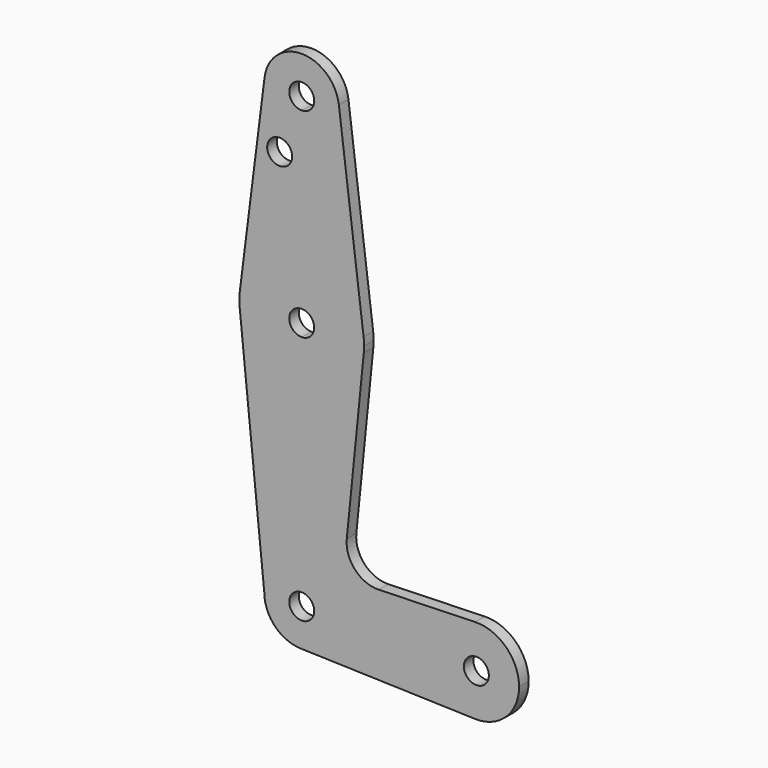
from build123d import *

# Parameters (mm, degrees)
F0_R     = 3.175
F1_DEPTH = 3.048


with BuildPart() as f1:
    # F0 (on Front) → F1 (new body)
    with BuildSketch(Plane.XZ):
        with BuildLine():
            ThreePointArc((3.175, 0), (-2.2450640303, -2.2450640303), (0, 3.175))
            Line((0, 3.175), (0, 9.525))
            ThreePointArc((0, 9.525), (-6.7351920908, 6.7351920908), (-9.525, 0))
            ThreePointArc((-9.525, 0), (-6.7351920908, -6.7351920908), (0, -9.525))
            ThreePointArc((0, -9.525), (6.7351920908, -6.7351920908), (9.525, 0))
            Line((9.525, 0), (3.175, 0))
        make_face()
        with BuildLine():
            ThreePointArc((-9.525, 0), (-6.7351920908, 6.7351920908), (0, 9.525))
            Line((0, 9.525), (0, 47.625))
            ThreePointArc((0, 47.625), (-10.644756084, 51.722700101), (-15.7942028036, 61.9003804205))
            Line((-15.7942028036, 61.9003804205), (-9.525, 0))
        make_face()
        with BuildLine():
            Line((0, 47.625), (0, 9.525))
            ThreePointArc((0, 9.525), (6.7351920908, 6.7351920908), (9.525, 0))
            Line((9.525, 0), (33.5832186606, 0))
            ThreePointArc((33.5832186606, 0), (36.6509120667, 7.5671106828), (44.121972004, 10.8618292341))
            Line((44.121972004, 10.8618292341), (19.6191685302, 10.1218428704))
            ThreePointArc((19.6191685302, 10.1218428704), (13.5643303089, 12.6468714525), (11.468832231, 18.8634398816))
            Line((11.468832231, 18.8634398816), (15.7954255641, 61.9125))
            ThreePointArc((15.7954255641, 61.9125), (10.6492737428, 51.7267849017), (0, 47.625))
        make_face()
        with BuildLine():
            Line((33.5832186606, 0), (9.525, 0))
            ThreePointArc((9.525, 0), (6.7351920908, -6.7351920908), (0, -9.525))
            Line((0, -9.525), (44.1209039153, -10.8617969252))
            ThreePointArc((44.1209039153, -10.8617969252), (36.6505400229, -7.5667272148), (33.5832186606, 0))
        make_face()
        with BuildLine():
            ThreePointArc((-15.7942028036, 61.9003804205), (-10.644756084, 51.722700101), (0, 47.625))
            Line((0, 47.625), (0, 60.325))
            ThreePointArc((0, 60.325), (-3.175, 63.5), (0, 66.675))
            Line((0, 66.675), (0, 79.375))
            ThreePointArc((0, 79.375), (-10.5003255158, 75.40625), (-15.7504882737, 65.484375))
            ThreePointArc((-15.7504882737, 65.484375), (-15.8738192656, 63.6936154008), (-15.7942028036, 61.9003804205))
        make_face()
        with BuildLine():
            Line((0, 60.325), (0, 47.625))
            ThreePointArc((0, 47.625), (10.6492737428, 51.7267849017), (15.7954255641, 61.9125))
            ThreePointArc((15.7954255641, 61.9125), (15.8550939106, 62.7052534459), (15.875, 63.5))
            ThreePointArc((15.875, 63.5), (15.8438414904, 64.4941387366), (15.7504882737, 65.484375))
            ThreePointArc((15.7504882737, 65.484375), (10.5003255158, 75.40625), (0, 79.375))
            Line((0, 79.375), (0, 66.675))
            ThreePointArc((0, 66.675), (2.2450640303, 65.7450640303), (3.175, 63.5))
            ThreePointArc((3.175, 63.5), (2.2450640303, 61.2549359697), (0, 60.325))
        make_face()
        with BuildLine():
            ThreePointArc((44.121972004, 10.8618292341), (36.6509120667, 7.5671106828), (33.5832186606, 0))
            ThreePointArc((33.5832186606, 0), (36.6505400229, -7.5667272148), (44.1209039153, -10.8617969252))
            ThreePointArc((44.1209039153, -10.8617969252), (52.0167272148, -7.7994599771), (55.3167813394, 0))
            ThreePointArc((55.3167813394, 0), (52.0171106828, 7.7990879333), (44.121972004, 10.8618292341))
        make_face()
        with BuildLine():
            ThreePointArc((47.625, 0), (44.45, -3.175), (41.275, 0))
            ThreePointArc((41.275, 0), (44.45, 3.175), (47.625, 0))
        make_face(mode=Mode.SUBTRACT)
        with BuildLine():
            Line((-9.4502929642, 115.490625), (-15.7504882737, 65.484375))
            ThreePointArc((-15.7504882737, 65.484375), (-10.5003255158, 75.40625), (0, 79.375))
            Line((0, 79.375), (0, 104.775))
            ThreePointArc((0, 104.775), (-7.14375, 107.9998046905), (-9.4502929642, 115.490625))
        make_face()
        with Locations((-5.6104799733, 100.0252)):
            Circle(F0_R, mode=Mode.SUBTRACT)
        with BuildLine():
            Line((0, 104.775), (0, 79.375))
            ThreePointArc((0, 79.375), (10.5003255158, 75.40625), (15.7504882737, 65.484375))
            Line((15.7504882737, 65.484375), (9.4502929642, 115.490625))
            ThreePointArc((9.4502929642, 115.490625), (9.5063048942, 114.896483242), (9.525, 114.3))
            ThreePointArc((9.525, 114.3), (6.7351920908, 107.5648079092), (0, 104.775))
        make_face()
        with BuildLine():
            ThreePointArc((9.4502929642, 115.490625), (0, 123.825), (-9.4502929642, 115.490625))
            ThreePointArc((-9.4502929642, 115.490625), (-7.14375, 107.9998046905), (0, 104.775))
            ThreePointArc((0, 104.775), (6.7351920908, 107.5648079092), (9.525, 114.3))
            ThreePointArc((9.525, 114.3), (9.5063048942, 114.896483242), (9.4502929642, 115.490625))
        make_face()
        with BuildLine():
            ThreePointArc((3.175, 114.3), (2.2450640303, 112.0549359697), (0, 111.125))
            ThreePointArc((0, 111.125), (-2.2450640303, 116.5450640303), (3.175, 114.3))
        make_face(mode=Mode.SUBTRACT)
        with BuildLine():
            Line((0, 9.525), (0, 3.175))
            ThreePointArc((0, 3.175), (2.2450640303, 2.2450640303), (3.175, 0))
            Line((3.175, 0), (9.525, 0))
            ThreePointArc((9.525, 0), (6.7351920908, 6.7351920908), (0, 9.525))
        make_face()
    extrude(amount=F1_DEPTH)


solid = f1.part
